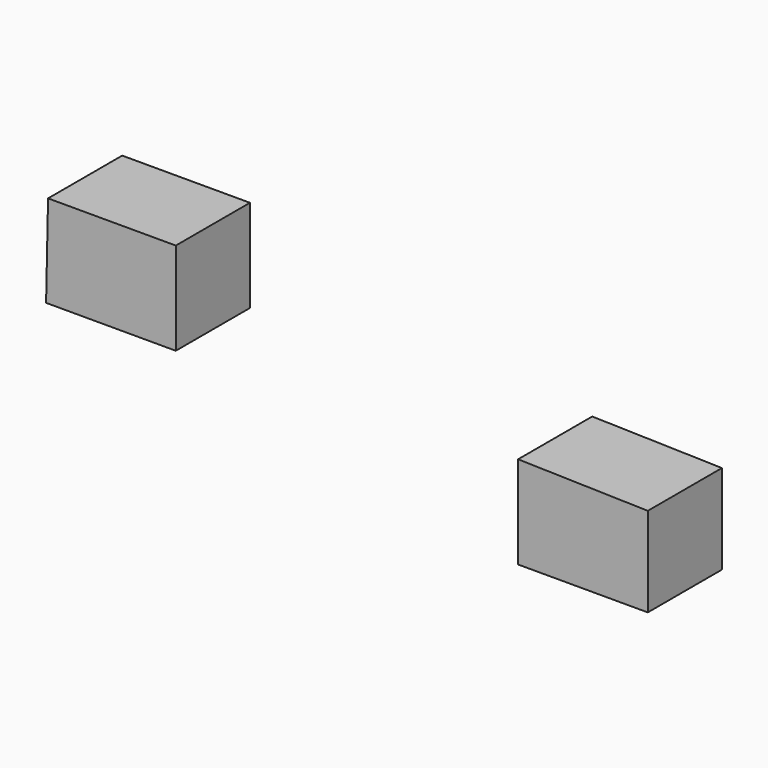
from build123d import *

# Parameters (mm, degrees)
F2_DEPTH = 12.7


with BuildPart() as f2:
    # F0 (on Front) + F1 (on Front) → F2 (new body)
    with BuildSketch(Plane.XZ):
        Polygon((-31.310125, 29.885897), (-31.445201, 23.537333), (-13.665201, 23.537333), (-13.665201, 36.23446), (-31.17505, 36.23446), align=None)
    with BuildSketch(Plane.XZ):
        Polygon((51.026962, 25.265922), (33.25238, 25.7048), (33.25238, 13.0048), (51.026962, 13.0048), (51.026962, 19.135361), align=None)
    extrude(amount=F2_DEPTH)


solid = f2.part
